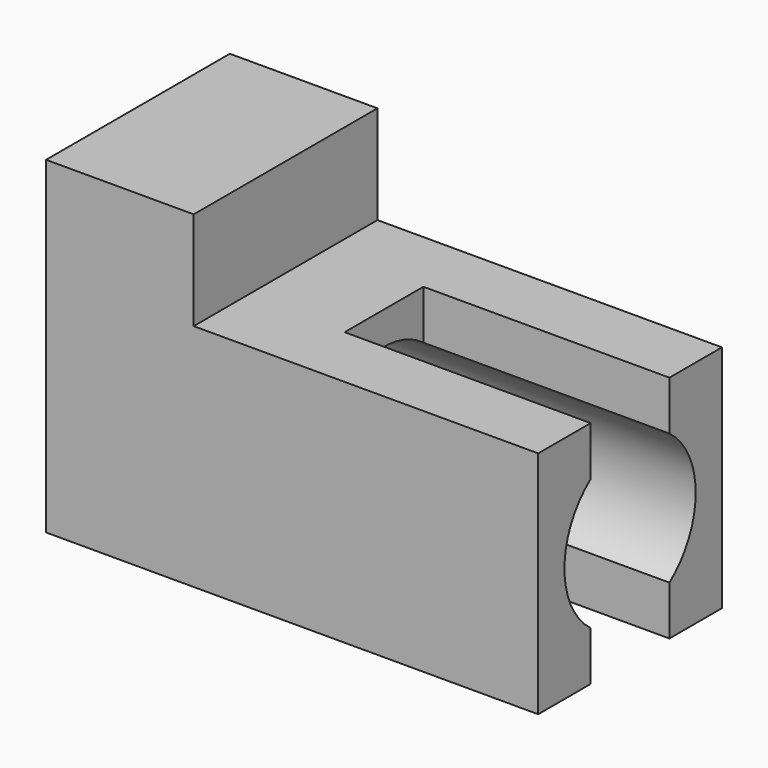
from build123d import *

# Parameters (mm, degrees)
F0_W     = 60
F0_H     = 28
F1_DEPTH = 40
F2_W     = 42
F2_H     = 28
F3_DEPTH = 12
F4_R     = 10
F5_DEPTH = 60
F6_W     = 12
F6_H     = 28
F7_DEPTH = 30


with BuildPart() as f1:
    # F0 (on Top) → F1 (new body)
    with BuildSketch(Plane.XY):
        with Locations((-28.556031, -25.896984)):
            Rectangle(F0_W, F0_H)
    extrude(amount=F1_DEPTH)

    # F2 (on face) → F3 (cut)
    with BuildSketch(Plane.XY.offset(40)):
        with Locations((-19.556031, -25.896984)):
            Rectangle(F2_W, F2_H)
    extrude(amount=-F3_DEPTH, mode=Mode.SUBTRACT)

    # F4 (on face) → F5 (cut)
    with BuildSketch(Plane.YZ.offset(1.443969)):
        with Locations((-25.896984, 14)):
            Circle(F4_R)
    extrude(amount=-F5_DEPTH, mode=Mode.SUBTRACT)

    # F6 (on face) → F7 (cut)
    with BuildSketch(Plane.YZ.offset(1.443969)):
        with Locations((-25.896984, 14)):
            Rectangle(F6_W, F6_H)
        with Locations((-25.896984, 14)):
            Rectangle(F6_W, F6_H)
    extrude(amount=-F7_DEPTH, mode=Mode.SUBTRACT)


solid = f1.part
